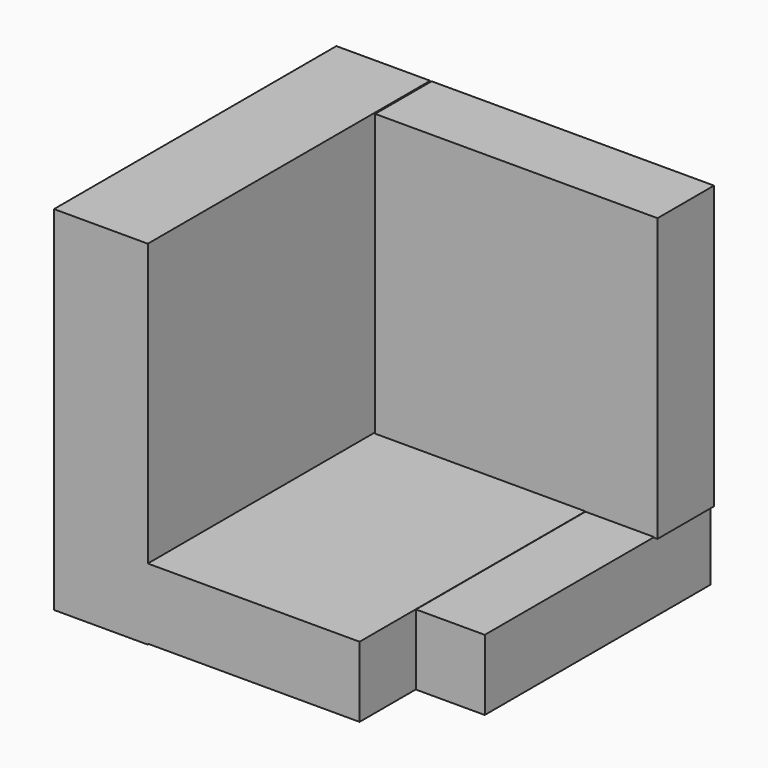
from build123d import *

# Parameters (mm, degrees)
F0_W     = 38.1
F0_H     = 12.7
F1_DEPTH = 63.5
F2_W     = 10.787756
F2_H     = 12.239977
F3_DEPTH = 25.4
F5_W     = 12.7
F5_H     = 12.7
F6_DEPTH = 50.8
F7_W     = 50.8
F7_H     = 50.8
F8_DEPTH = 12.7


with BuildPart() as f1:
    # F0 (on Front) → F1 (new body)
    with BuildSketch(Plane.XZ):
        Polygon((16.877607, 0), (0, 0), (0, -63.5), (16.877607, -63.5), (16.877607, -63.351139), (16.877607, -50.651139), align=None)
        with Locations((35.927607, -57.001139)):
            Rectangle(F0_W, F0_H)
    extrude(amount=F1_DEPTH)

    # F5 (on Front) → F6 (join)
    with BuildSketch(Plane.XZ):
        with Locations((60.988158, -57.050698)):
            Rectangle(F5_W, F5_H)
    extrude(amount=F6_DEPTH)

    # F7 (on Front) → F8 (join)
    with BuildSketch(Plane.XZ):
        with Locations((42.542354, -25.4)):
            Rectangle(F7_W, F7_H)
    extrude(amount=F8_DEPTH)


with BuildPart() as f3:
    # F2 (on Front) → F3 (new body)
    with BuildSketch(Plane.XZ):
        with Locations((60.992375, -56.739516)):
            Rectangle(F2_W, F2_H)
        with Locations((60.992375, -56.739516)):
            Rectangle(F2_W, F2_H)
    extrude(amount=F3_DEPTH)


solid = f1.part
